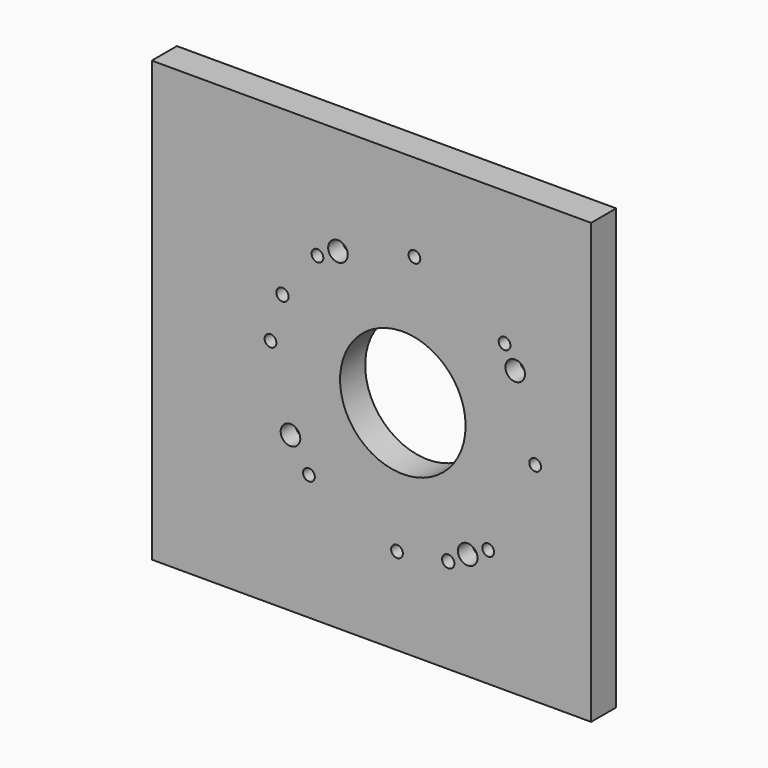
from build123d import *

# Parameters (mm, degrees)
F0_W     = 355.6
F0_H     = 355.6
F1_DEPTH = 25.4
F2_R     = 4.7625
F2_R_2   = 4.9784
F2_R_3   = 50.8
F3_DEPTH = 25.401
F4_R     = 7.9375
F5_DEPTH = 25.401
F6_R     = 12.7
F7_DEPTH = 10.922


with BuildPart() as f1:
    # F0 (on Front) → F1 (new body)
    with BuildSketch(Plane.XZ):
        with Locations((-177.8, 177.8)):
            Rectangle(F0_W, F0_H)
    extrude(amount=F1_DEPTH)

    # F2 (on face) → F3 (cut, through all)
    with BuildSketch(Plane.XZ.offset(25.4)):
        with Locations((-259.49093, 187.169242)):
            Circle(F2_R)
        with Locations((-221.499668, 260.149778)):
            Circle(F2_R)
        with Locations((-143.030758, 284.89093)):
            Circle(F2_R)
        with Locations((-70.050222, 246.899668)):
            Circle(F2_R)
        with Locations((-45.30907, 168.430758)):
            Circle(F2_R)
        with Locations((-83.300332, 95.450222)):
            Circle(F2_R)
        with Locations((-157.089084, 70.402316)):
            Circle(F2_R)
        with Locations((-228.413979, 101.786021)):
            Circle(F2_R)
        with Locations((-249.828087, 223.231463)):
            Circle(F2_R_2)
        with Locations((-115.632835, 76.783043)):
            Circle(F2_R_2)
        with Locations((-152.4, 177.8)):
            Circle(F2_R_3)
    extrude(amount=-F3_DEPTH, mode=Mode.SUBTRACT)

    # F4 (on face) → F5 (cut, through all)
    with BuildSketch(Plane.XZ.offset(25.4)):
        with Locations((-204.9018, 268.735785)):
            Circle(F4_R)
        with Locations((-243.335785, 125.2982)):
            Circle(F4_R)
        with Locations((-99.8982, 86.864215)):
            Circle(F4_R)
        with Locations((-61.464215, 230.3018)):
            Circle(F4_R)
    extrude(amount=-F5_DEPTH, mode=Mode.SUBTRACT)

    # F6 (on face) → F7 (cut)
    with BuildSketch(Plane(origin=(0, 0, 0), x_dir=(-1, 0, 0), z_dir=(0, 1, 0))):
        with Locations((204.9018, 268.735785)):
            Circle(F6_R)
        with Locations((243.335785, 125.2982)):
            Circle(F6_R)
        with Locations((99.8982, 86.864215)):
            Circle(F6_R)
        with Locations((61.464215, 230.3018)):
            Circle(F6_R)
    extrude(amount=-F7_DEPTH, mode=Mode.SUBTRACT)


solid = f1.part
